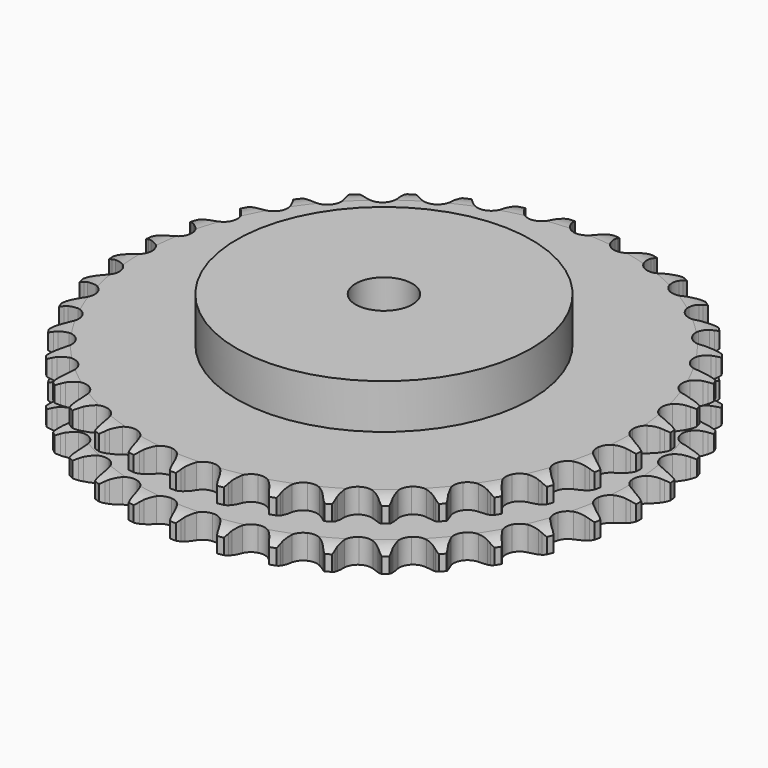
from build123d import *

# Parameters (mm, degrees)
PAD_DEPTH         = 30.3
SKETCH001_R       = 65
PAD001_DEPTH      = 50
SKETCH002_R       = 12.5
POCKET_DEPTH      = 0.001
POCKET_DEPTH_BACK = 50.001


with BuildPart() as part:
    # Sprocket → Pad (new body)
    with BuildSketch(Plane.XY):
        with BuildLine():
            ThreePointArc((-10.038333, 117.941871), (-8.627159, 116.235604), (-7.635, 114.256115))
            Line((-7.635, 114.256115), (-7.046288, 112.650437))
            ThreePointArc((-7.046288, 112.650437), (-6.115619, 110.585078), (-4.898442, 108.674493))
            ThreePointArc((-4.898442, 108.674493), (-2.741289, 106.862258), (0, 106.211991))
            ThreePointArc((0, 106.211991), (2.741289, 106.862258), (4.898442, 108.674493))
            ThreePointArc((4.898442, 108.674493), (6.115619, 110.585078), (7.046288, 112.650437))
            Line((7.046288, 112.650437), (7.635, 114.256115))
            ThreePointArc((7.635, 114.256115), (8.627159, 116.235604), (10.038333, 117.941871))
            ThreePointArc((10.038333, 117.941871), (11.140847, 116.021658), (11.7842, 113.902967))
            Line((11.7842, 113.902967), (12.093082, 112.220891))
            ThreePointArc((12.093082, 112.220891), (12.661318, 110.027957), (13.538096, 107.93915))
            ThreePointArc((13.538096, 107.93915), (15.357952, 105.788422), (17.949914, 104.684229))
            ThreePointArc((17.949914, 104.684229), (20.761667, 104.861861), (23.194061, 106.283469))
            Line((23.194061, 106.283469), (25.98295, 109.839234))
            ThreePointArc((25.98295, 109.839234), (26.388619, 110.59234), (26.834555, 111.322324))
            ThreePointArc((26.834555, 111.322324), (28.146978, 113.105664), (29.826213, 114.548898))
            ThreePointArc((29.826213, 114.548898), (30.588351, 112.46998), (30.86439, 110.273037))
            Line((30.86439, 110.273037), (30.884557, 108.562955))
            ThreePointArc((30.884557, 108.562955), (31.074011, 106.305532), (31.585168, 104.098595))
            ThreePointArc((31.585168, 104.098595), (33.015371, 101.671245), (35.383441, 100.144891))
            ThreePointArc((35.383441, 100.144891), (38.18477, 99.84478), (40.822429, 100.834863))
            Line((40.822429, 100.834863), (44.17213, 103.868157))
            ThreePointArc((44.17213, 103.868157), (44.699239, 104.541871), (45.262128, 105.185992))
            ThreePointArc((45.262128, 105.185992), (46.857059, 106.721879), (48.756048, 107.860562))
            ThreePointArc((48.756048, 107.860562), (49.155885, 105.682745), (49.056667, 103.470752))
            Line((49.056667, 103.470752), (48.787539, 101.78186))
            ThreePointArc((48.787539, 101.78186), (48.592762, 99.52489), (48.723592, 97.263312))
            ThreePointArc((48.723592, 97.263312), (49.722999, 94.629172), (51.799051, 92.724567))
            ThreePointArc((51.799051, 92.724567), (54.509366, 91.955347), (57.27641, 92.485421))
            Line((57.27641, 92.485421), (61.090558, 94.908982))
            ThreePointArc((61.090558, 94.908982), (61.723943, 95.483924), (62.387593, 96.02365))
            ThreePointArc((62.387593, 96.02365), (64.219148, 97.267901), (66.28326, 98.069273))
            ThreePointArc((66.28326, 98.069273), (66.309293, 95.85521), (65.837674, 93.691803))
            Line((65.837674, 93.691803), (65.286993, 92.072687))
            ThreePointArc((65.286993, 92.072687), (64.713587, 89.881099), (64.460327, 87.629941))
            ThreePointArc((64.460327, 87.629941), (65.000187, 84.86479), (66.724497, 82.636727))
            ThreePointArc((66.724497, 82.636727), (69.265828, 81.420525), (72.082653, 81.475342))
            Line((72.082653, 81.475342), (76.251521, 83.219448))
            ThreePointArc((76.251521, 83.219448), (76.972962, 83.679077), (77.718279, 84.098883))
            ThreePointArc((77.718279, 84.098883), (79.733769, 85.015702), (81.903623, 85.456711))
            ThreePointArc((81.903623, 85.456711), (81.555103, 83.270095), (80.72465, 81.21751))
            Line((80.72465, 81.21751), (79.908259, 79.71475))
            ThreePointArc((79.908259, 79.71475), (78.972721, 77.651591), (78.342655, 75.475616))
            ThreePointArc((78.342655, 75.475616), (78.407437, 72.659002), (79.7304, 70.171578))
            ThreePointArc((79.7304, 70.171578), (82.029637, 68.543383), (84.815209, 68.121366))
            Line((84.815209, 68.121366), (89.218868, 69.135843))
            ThreePointArc((89.218868, 69.135843), (90.007609, 69.466936), (90.813153, 69.754744))
            ThreePointArc((90.813153, 69.754744), (92.954595, 70.317756), (95.167768, 70.385714))
            ThreePointArc((95.167768, 70.385714), (94.454721, 68.289451), (93.289325, 66.406738))
            Line((93.289325, 66.406738), (92.230709, 65.063564))
            ThreePointArc((92.230709, 65.063564), (90.959952, 63.188189), (89.971209, 61.149995))
            ThreePointArc((89.971209, 61.149995), (89.559049, 58.362947), (90.442605, 55.687721))
            ThreePointArc((90.442605, 55.687721), (92.433604, 53.694373), (95.107786, 52.807662))
            Line((95.107786, 52.807662), (99.61955, 53.063325))
            ThreePointArc((99.61955, 53.063325), (100.4529, 53.256358), (101.295498, 53.403889))
            ThreePointArc((101.295498, 53.403889), (103.501286, 53.596896), (105.69411, 53.289849))
            ThreePointArc((105.69411, 53.289849), (104.637049, 51.344244), (103.170237, 49.685565))
            Line((103.170237, 49.685565), (101.89985, 48.540619))
            ThreePointArc((101.89985, 48.540619), (100.330432, 46.906978), (99.011454, 45.0652))
            ThreePointArc((99.011454, 45.0652), (98.134209, 42.387897), (98.552941, 39.601829))
            ThreePointArc((98.552941, 39.601829), (100.178424, 37.300673), (102.664286, 35.974778))
            Line((102.664286, 35.974778), (107.154358, 35.464272))
            ThreePointArc((107.154358, 35.464272), (108.008345, 35.513691), (108.863755, 35.5167))
            ThreePointArc((108.863755, 35.5167), (111.070434, 35.334152), (113.179825, 34.660932))
            ThreePointArc((113.179825, 34.660932), (111.80916, 32.921957), (110.083128, 31.535029))
            Line((110.083128, 31.535029), (108.637518, 30.621248))
            ThreePointArc((108.637518, 30.621248), (106.814588, 29.276339), (105.20332, 27.683961))
            ThreePointArc((105.20332, 27.683961), (103.886227, 25.193423), (103.828089, 22.376665))
            ThreePointArc((103.828089, 22.376665), (105.041293, 19.833901), (107.26732, 18.106965))
            Line((107.26732, 18.106965), (111.606531, 16.844976))
            ThreePointArc((111.606531, 16.844976), (112.456586, 16.74936), (113.3002, 16.607761))
            ThreePointArc((113.3002, 16.607761), (115.444287, 16.054908), (117.409562, 15.034883))
            ThreePointArc((117.409562, 15.034883), (115.764725, 13.552565), (113.829128, 12.477288))
            Line((113.829128, 12.477288), (112.249882, 11.820959))
            ThreePointArc((112.249882, 11.820959), (110.225883, 10.803472), (108.368678, 9.506305))
            ThreePointArc((108.368678, 9.506305), (106.649628, 7.274181), (106.116291, 4.507765))
            ThreePointArc((106.116291, 4.507765), (106.882315, 1.796544), (108.78447, -0.281752))
            Line((108.78447, -0.281752), (112.847988, -2.258919))
            ThreePointArc((112.847988, -2.258919), (113.669656, -2.49682), (114.477205, -2.778954))
            ThreePointArc((114.477205, -2.778954), (116.497019, -3.686207), (118.26164, -5.023693))
            ThreePointArc((118.26164, -5.023693), (116.389949, -6.20671), (114.300472, -6.939403))
            Line((114.300472, -6.939403), (112.633021, -7.319396))
            ThreePointArc((112.633021, -7.319396), (110.466179, -7.98019), (108.416467, -8.94483))
            ThreePointArc((108.416467, -8.94483), (106.344913, -10.854326), (105.351721, -13.490816))
            ThreePointArc((105.351721, -13.490816), (105.648528, -16.292496), (107.172088, -18.662364))
            Line((107.172088, -18.662364), (110.843013, -21.297829))
            ThreePointArc((110.843013, -21.297829), (111.612657, -21.67117), (112.36091, -22.085722))
            ThreePointArc((112.36091, -22.085722), (114.198343, -23.321276), (115.711546, -24.937746))
            ThreePointArc((115.711546, -24.937746), (113.666847, -25.787429), (111.483599, -26.156459))
            Line((111.483599, -26.156459), (109.775914, -26.249187))
            ThreePointArc((109.775914, -26.249187), (107.528565, -26.534278), (105.345311, -27.138639))
            ThreePointArc((105.345311, -27.138639), (102.980848, -28.670574), (101.556373, -31.10129))
            ThreePointArc((101.556373, -31.10129), (101.375424, -33.912831), (102.47656, -36.506094))
            Line((102.47656, -36.506094), (105.649287, -39.72404))
            ThreePointArc((105.649287, -39.72404), (106.344765, -40.222081), (107.012195, -40.757125))
            ThreePointArc((107.012195, -40.757125), (108.614389, -42.285434), (109.832641, -44.134385))
            ThreePointArc((109.832641, -44.134385), (107.673756, -44.626291), (105.459546, -44.621042))
            Line((105.459546, -44.621042), (103.760753, -44.423836))
            ThreePointArc((103.760753, -44.423836), (101.49755, -44.325022), (99.243562, -44.551718))
            ThreePointArc((99.243562, -44.551718), (96.654212, -45.662021), (94.839434, -47.817036))
            ThreePointArc((94.839434, -47.817036), (94.185935, -50.557556), (94.832968, -53.29961))
            Line((94.832968, -53.29961), (97.416223, -57.007461))
            ThreePointArc((97.416223, -57.007461), (98.017528, -57.615875), (98.584934, -58.25602))
            ThreePointArc((98.584934, -58.25602), (99.905797, -60.033118), (100.794051, -62.061359))
            ThreePointArc((100.794051, -62.061359), (98.583087, -62.181335), (96.401613, -61.801959))
            Line((96.401613, -61.801959), (94.760585, -61.320491))
            ThreePointArc((94.760585, -61.320491), (92.546635, -60.840616), (90.286757, -60.683126))
            ThreePointArc((90.286757, -60.683126), (87.54701, -61.339856), (85.394136, -63.157174))
            ThreePointArc((85.394136, -63.157174), (84.286887, -65.747832), (84.461204, -68.559793))
            Line((84.461204, -68.559793), (86.380671, -72.650883))
            ThreePointArc((86.380671, -72.650883), (86.870505, -73.352166), (87.321565, -74.078995))
            ThreePointArc((87.321565, -74.078995), (88.323097, -76.053758), (88.8558, -78.20294))
            ThreePointArc((88.8558, -78.20294), (86.656363, -77.947536), (84.570382, -77.204946))
            Line((84.570382, -77.204946), (83.034327, -76.453069))
            ThreePointArc((83.034327, -76.453069), (80.933322, -75.605936), (78.732566, -75.06879))
            ThreePointArc((78.732566, -75.06879), (75.92124, -75.253054), (73.492205, -76.680394))
            ThreePointArc((73.492205, -76.680394), (71.96306, -79.046662), (71.659646, -81.847635))
            Line((71.659646, -81.847635), (72.860105, -86.20427))
            ThreePointArc((72.860105, -86.20427), (73.224375, -86.978248), (73.546113, -87.770852))
            ThreePointArc((73.546113, -87.770852), (74.199502, -89.88647), (74.361329, -92.094765))
            ThreePointArc((74.361329, -92.094765), (72.236692, -91.471328), (70.306215, -90.386887))
            Line((70.306215, -90.386887), (68.919322, -89.38623))
            ThreePointArc((68.919322, -89.38623), (66.991705, -88.196212), (64.913383, -87.294862))
            ThreePointArc((64.913383, -87.294862), (62.111354, -87.001359), (59.476037, -87.99766))
            ThreePointArc((59.476037, -87.99766), (57.568986, -90.071464), (56.796569, -92.78087))
            Line((56.796569, -92.78087), (57.243486, -97.277718))
            ThreePointArc((57.243486, -97.277718), (57.471714, -98.102125), (57.654873, -98.937702))
            ThreePointArc((57.654873, -98.937702), (57.941323, -101.133311), (57.727618, -103.337191))
            ThreePointArc((57.727618, -103.337191), (55.738904, -102.363656), (54.019466, -100.968562))
            Line((54.019466, -100.968562), (52.821634, -99.747913))
            ThreePointArc((52.821634, -99.747913), (51.122858, -98.249243), (49.22676, -97.00962))
            ThreePointArc((49.22676, -97.00962), (46.514638, -96.246794), (43.748852, -96.783393))
            ThreePointArc((43.748852, -96.783393), (41.518757, -98.505074), (40.299559, -101.044969))
            Line((40.299559, -101.044969), (39.980077, -105.552662))
            ThreePointArc((39.980077, -105.552662), (40.065696, -106.403782), (40.105007, -107.258294))
            ThreePointArc((40.105007, -107.258294), (40.016277, -109.470732), (39.433189, -111.606794))
            ThreePointArc((39.433189, -111.606794), (37.637608, -110.311169), (36.178675, -108.645555))
            Line((36.178675, -108.645555), (35.204364, -107.240029))
            ThreePointArc((35.204364, -107.240029), (33.783299, -105.475822), (32.123972, -103.933588))
            ThreePointArc((32.123972, -103.933588), (29.57978, -102.723383), (26.763092, -102.784843))
            ThreePointArc((26.763092, -102.784843), (24.274109, -104.104872), (22.643204, -106.402188))
            Line((22.643204, -106.402188), (21.566513, -110.791049))
            ThreePointArc((21.566513, -110.791049), (21.507061, -111.644396), (21.401393, -112.49326))
            ThreePointArc((21.401393, -112.49326), (20.940036, -114.658879), (20.004339, -116.665674))
            ThreePointArc((20.004339, -116.665674), (18.453548, -115.08523), (17.29709, -113.197013))
            Line((17.29709, -113.197013), (16.574328, -111.647045))
            ThreePointArc((16.574328, -111.647045), (15.471857, -109.668053), (14.097036, -107.867575))
            ThreePointArc((14.097036, -107.867575), (11.793966, -106.244808), (9.007406, -105.829361))
            ThreePointArc((9.007406, -105.829361), (6.33114, -106.709763), (4.335445, -108.698409))
            Line((4.335445, -108.698409), (2.532521, -112.842179))
            ThreePointArc((2.532521, -112.842179), (2.329707, -113.673204), (2.082101, -114.492))
            ThreePointArc((2.082101, -114.492), (1.261388, -116.548498), (0, -118.368294))
            ThreePointArc((0, -118.368294), (-1.261388, -116.548498), (-2.082101, -114.492))
            Line((-2.082101, -114.492), (-2.532521, -112.842179))
            ThreePointArc((-2.532521, -112.842179), (-3.284682, -110.705335), (-4.335445, -108.698409))
            ThreePointArc((-4.335445, -108.698409), (-6.33114, -106.709763), (-9.007406, -105.829361))
            ThreePointArc((-9.007406, -105.829361), (-11.793966, -106.244808), (-14.097036, -107.867575))
            Line((-14.097036, -107.867575), (-16.574328, -111.647045))
            ThreePointArc((-16.574328, -111.647045), (-16.914668, -112.431841), (-17.29709, -113.197013))
            ThreePointArc((-17.29709, -113.197013), (-18.453548, -115.08523), (-20.004339, -116.665674))
            ThreePointArc((-20.004339, -116.665674), (-20.940036, -114.658879), (-21.401393, -112.49326))
            Line((-21.401393, -112.49326), (-21.566513, -110.791049))
            ThreePointArc((-21.566513, -110.791049), (-21.946728, -108.557825), (-22.643204, -106.402188))
            ThreePointArc((-22.643204, -106.402188), (-24.274109, -104.104872), (-26.763092, -102.784843))
            ThreePointArc((-26.763092, -102.784843), (-29.57978, -102.723383), (-32.123972, -103.933588))
            Line((-32.123972, -103.933588), (-35.204364, -107.240029))
            ThreePointArc((-35.204364, -107.240029), (-35.67244, -107.956018), (-36.178675, -108.645555))
            ThreePointArc((-36.178675, -108.645555), (-37.637608, -110.311169), (-39.433189, -111.606794))
            ThreePointArc((-39.433189, -111.606794), (-40.016277, -109.470732), (-40.105007, -107.258294))
            Line((-40.105007, -107.258294), (-39.980077, -105.552662))
            ThreePointArc((-39.980077, -105.552662), (-39.977405, -103.287305), (-40.299559, -101.044969))
            ThreePointArc((-40.299559, -101.044969), (-41.518757, -98.505074), (-43.748852, -96.783393))
            ThreePointArc((-43.748852, -96.783393), (-46.514638, -96.246794), (-49.22676, -97.00962))
            Line((-49.22676, -97.00962), (-52.821634, -99.747913))
            ThreePointArc((-52.821634, -99.747913), (-53.40398, -100.374498), (-54.019466, -100.968562))
            ThreePointArc((-54.019466, -100.968562), (-55.738904, -102.363656), (-57.727618, -103.337191))
            ThreePointArc((-57.727618, -103.337191), (-57.941323, -101.133311), (-57.654873, -98.937702))
            Line((-57.654873, -98.937702), (-57.243486, -97.277718))
            ThreePointArc((-57.243486, -97.277718), (-56.858006, -95.045396), (-56.796569, -92.78087))
            ThreePointArc((-56.796569, -92.78087), (-57.568986, -90.071464), (-59.476037, -87.99766))
            ThreePointArc((-59.476037, -87.99766), (-62.111354, -87.001359), (-64.913383, -87.294862))
            Line((-64.913383, -87.294862), (-68.919322, -89.38623))
            ThreePointArc((-68.919322, -89.38623), (-69.599185, -89.905385), (-70.306215, -90.386887))
            ThreePointArc((-70.306215, -90.386887), (-72.236692, -91.471328), (-74.361329, -92.094765))
            ThreePointArc((-74.361329, -92.094765), (-74.199502, -89.88647), (-73.546113, -87.770852))
            Line((-73.546113, -87.770852), (-72.860105, -86.20427))
            ThreePointArc((-72.860105, -86.20427), (-72.102905, -84.069205), (-71.659646, -81.847635))
            ThreePointArc((-71.659646, -81.847635), (-71.96306, -79.046662), (-73.492205, -76.680394))
            ThreePointArc((-73.492205, -76.680394), (-75.92124, -75.253054), (-78.732566, -75.06879))
            Line((-78.732566, -75.06879), (-83.034327, -76.453069))
            ThreePointArc((-83.034327, -76.453069), (-83.792148, -76.849859), (-84.570382, -77.204946))
            ThreePointArc((-84.570382, -77.204946), (-86.656363, -77.947536), (-88.8558, -78.20294))
            ThreePointArc((-88.8558, -78.20294), (-88.323097, -76.053758), (-87.321565, -74.078995))
            Line((-87.321565, -74.078995), (-86.380671, -72.650883))
            ThreePointArc((-86.380671, -72.650883), (-85.273535, -70.674496), (-84.461204, -68.559793))
            ThreePointArc((-84.461204, -68.559793), (-84.286887, -65.747832), (-85.394136, -63.157174))
            ThreePointArc((-85.394136, -63.157174), (-87.54701, -61.339856), (-90.286757, -60.683126))
            Line((-90.286757, -60.683126), (-94.760585, -61.320491))
            ThreePointArc((-94.760585, -61.320491), (-95.574563, -61.583502), (-96.401613, -61.801959))
            ThreePointArc((-96.401613, -61.801959), (-98.583087, -62.181335), (-100.794051, -62.061359))
            ThreePointArc((-100.794051, -62.061359), (-99.905797, -60.033118), (-98.584934, -58.25602))
            Line((-98.584934, -58.25602), (-97.416223, -57.007461))
            ThreePointArc((-97.416223, -57.007461), (-95.991001, -55.24661), (-94.832968, -53.29961))
            ThreePointArc((-94.832968, -53.29961), (-94.185935, -50.557556), (-94.839434, -47.817036))
            ThreePointArc((-94.839434, -47.817036), (-96.654212, -45.662021), (-99.243562, -44.551718))
            Line((-99.243562, -44.551718), (-103.760753, -44.423836))
            ThreePointArc((-103.760753, -44.423836), (-104.607472, -44.5455), (-105.459546, -44.621042))
            ThreePointArc((-105.459546, -44.621042), (-107.673756, -44.626291), (-109.832641, -44.134385))
            ThreePointArc((-109.832641, -44.134385), (-108.614389, -42.285434), (-107.012195, -40.757125))
            Line((-107.012195, -40.757125), (-105.649287, -39.72404))
            ThreePointArc((-105.649287, -39.72404), (-103.94698, -38.22938), (-102.47656, -36.506094))
            ThreePointArc((-102.47656, -36.506094), (-101.375424, -33.912831), (-101.556373, -31.10129))
            ThreePointArc((-101.556373, -31.10129), (-102.980848, -28.670574), (-105.345311, -27.138639))
            Line((-105.345311, -27.138639), (-109.775914, -26.249187))
            ThreePointArc((-109.775914, -26.249187), (-110.631015, -26.226005), (-111.483599, -26.156459))
            ThreePointArc((-111.483599, -26.156459), (-113.666847, -25.787429), (-115.711546, -24.937746))
            ThreePointArc((-115.711546, -24.937746), (-114.198343, -23.321276), (-112.36091, -22.085722))
            Line((-112.36091, -22.085722), (-110.843013, -21.297829))
            ThreePointArc((-110.843013, -21.297829), (-108.912594, -20.112361), (-107.172088, -18.662364))
            ThreePointArc((-107.172088, -18.662364), (-105.648528, -16.292496), (-105.351721, -13.490816))
            ThreePointArc((-105.351721, -13.490816), (-106.344913, -10.854326), (-108.416467, -8.94483))
            Line((-108.416467, -8.94483), (-112.633021, -7.319396))
            ThreePointArc((-112.633021, -7.319396), (-113.471905, -7.152035), (-114.300472, -6.939403))
            ThreePointArc((-114.300472, -6.939403), (-116.389949, -6.20671), (-118.26164, -5.023693))
            ThreePointArc((-118.26164, -5.023693), (-116.497019, -3.686207), (-114.477205, -2.778954))
            Line((-114.477205, -2.778954), (-112.847988, -2.258919))
            ThreePointArc((-112.847988, -2.258919), (-110.744991, -1.416745), (-108.78447, -0.281752))
            ThreePointArc((-108.78447, -0.281752), (-106.882315, 1.796544), (-106.116291, 4.507765))
            ThreePointArc((-106.116291, 4.507765), (-106.649628, 7.274181), (-108.368678, 9.506305))
            Line((-108.368678, 9.506305), (-112.249882, 11.820959))
            ThreePointArc((-112.249882, 11.820959), (-113.048415, 12.127685), (-113.829128, 12.477288))
            ThreePointArc((-113.829128, 12.477288), (-115.764725, 13.552565), (-117.409562, 15.034883))
            ThreePointArc((-117.409562, 15.034883), (-115.444287, 16.054908), (-113.3002, 16.607761))
            Line((-113.3002, 16.607761), (-111.606531, 16.844976))
            ThreePointArc((-111.606531, 16.844976), (-109.391456, 17.319628), (-107.26732, 18.106965))
            ThreePointArc((-107.26732, 18.106965), (-105.041293, 19.833901), (-103.828089, 22.376665))
            ThreePointArc((-103.828089, 22.376665), (-103.886227, 25.193423), (-105.20332, 27.683961))
            Line((-105.20332, 27.683961), (-108.637518, 30.621248))
            ThreePointArc((-108.637518, 30.621248), (-109.372728, 31.058514), (-110.083128, 31.535029))
            ThreePointArc((-110.083128, 31.535029), (-111.80916, 32.921957), (-113.179825, 34.660932))
            ThreePointArc((-113.179825, 34.660932), (-111.070434, 35.334152), (-108.863755, 35.5167))
            Line((-108.863755, 35.5167), (-107.154358, 35.464272))
            ThreePointArc((-107.154358, 35.464272), (-104.890928, 35.557747), (-102.664286, 35.974778))
            ThreePointArc((-102.664286, 35.974778), (-100.178424, 37.300673), (-98.552941, 39.601829))
            ThreePointArc((-98.552941, 39.601829), (-98.134209, 42.387897), (-99.011454, 45.0652))
            Line((-99.011454, 45.0652), (-101.89985, 48.540619))
            ThreePointArc((-101.89985, 48.540619), (-102.550586, 49.095847), (-103.170237, 49.685565))
            ThreePointArc((-103.170237, 49.685565), (-104.637049, 51.344244), (-105.69411, 53.289849))
            ThreePointArc((-105.69411, 53.289849), (-103.501286, 53.596896), (-101.295498, 53.403889))
            Line((-101.295498, 53.403889), (-99.61955, 53.063325))
            ThreePointArc((-99.61955, 53.063325), (-97.37288, 52.772934), (-95.107786, 52.807662))
            ThreePointArc((-95.107786, 52.807662), (-92.433604, 53.694373), (-90.442605, 55.687721))
            ThreePointArc((-90.442605, 55.687721), (-89.559049, 58.362947), (-89.971209, 61.149995))
            Line((-89.971209, 61.149995), (-92.230709, 65.063564))
            ThreePointArc((-92.230709, 65.063564), (-92.778251, 65.720781), (-93.289325, 66.406738))
            ThreePointArc((-93.289325, 66.406738), (-94.454721, 68.289451), (-95.167768, 70.385714))
            ThreePointArc((-95.167768, 70.385714), (-92.954595, 70.317756), (-90.813153, 69.754744))
            Line((-90.813153, 69.754744), (-89.218868, 69.135843))
            ThreePointArc((-89.218868, 69.135843), (-87.05359, 68.46994), (-84.815209, 68.121366))
            ThreePointArc((-84.815209, 68.121366), (-82.029637, 68.543383), (-79.7304, 70.171578))
            ThreePointArc((-79.7304, 70.171578), (-78.407437, 72.659002), (-78.342655, 75.475616))
            Line((-78.342655, 75.475616), (-79.908259, 79.71475))
            ThreePointArc((-79.908259, 79.71475), (-80.336854, 80.455048), (-80.72465, 81.21751))
            ThreePointArc((-80.72465, 81.21751), (-81.555103, 83.270095), (-81.903623, 85.456711))
            ThreePointArc((-81.903623, 85.456711), (-79.733769, 85.015702), (-77.718279, 84.098883))
            Line((-77.718279, 84.098883), (-76.251521, 83.219448))
            ThreePointArc((-76.251521, 83.219448), (-74.229928, 82.19719), (-72.082653, 81.475342))
            ThreePointArc((-72.082653, 81.475342), (-69.265828, 81.420525), (-66.724497, 82.636727))
            ThreePointArc((-66.724497, 82.636727), (-65.000187, 84.86479), (-64.460327, 87.629941))
            Line((-64.460327, 87.629941), (-65.286993, 92.072687))
            ThreePointArc((-65.286993, 92.072687), (-65.584313, 92.874769), (-65.837674, 93.691803))
            ThreePointArc((-65.837674, 93.691803), (-66.309293, 95.85521), (-66.28326, 98.069273))
            ThreePointArc((-66.28326, 98.069273), (-64.219148, 97.267901), (-62.387593, 96.02365))
            Line((-62.387593, 96.02365), (-61.090558, 94.908982))
            ThreePointArc((-61.090558, 94.908982), (-59.270805, 93.559777), (-57.27641, 92.485421))
            ThreePointArc((-57.27641, 92.485421), (-54.509366, 91.955347), (-51.799051, 92.724567))
            ThreePointArc((-51.799051, 92.724567), (-49.722999, 94.629172), (-48.723592, 97.263312))
            Line((-48.723592, 97.263312), (-48.787539, 101.78186))
            ThreePointArc((-48.787539, 101.78186), (-48.94503, 102.622653), (-49.056667, 103.470752))
            ThreePointArc((-49.056667, 103.470752), (-49.155885, 105.682745), (-48.756048, 107.860562))
            ThreePointArc((-48.756048, 107.860562), (-46.857059, 106.721879), (-45.262128, 105.185992))
            Line((-45.262128, 105.185992), (-44.17213, 103.868157))
            ThreePointArc((-44.17213, 103.868157), (-42.606569, 102.23082), (-40.822429, 100.834863))
            ThreePointArc((-40.822429, 100.834863), (-38.18477, 99.84478), (-35.383441, 100.144891))
            ThreePointArc((-35.383441, 100.144891), (-33.015371, 101.671245), (-31.585168, 104.098595))
            Line((-31.585168, 104.098595), (-30.884557, 108.562955))
            ThreePointArc((-30.884557, 108.562955), (-30.897688, 109.41827), (-30.86439, 110.273037))
            ThreePointArc((-30.86439, 110.273037), (-30.588351, 112.46998), (-29.826213, 114.548898))
            ThreePointArc((-29.826213, 114.548898), (-28.146978, 113.105664), (-26.834555, 111.322324))
            Line((-26.834555, 111.322324), (-25.98295, 109.839234))
            ThreePointArc((-25.98295, 109.839234), (-24.71662, 107.960868), (-23.194061, 106.283469))
            ThreePointArc((-23.194061, 106.283469), (-20.761667, 104.861861), (-17.949914, 104.684229))
            ThreePointArc((-17.949914, 104.684229), (-15.357952, 105.788422), (-13.538096, 107.93915))
            Line((-13.538096, 107.93915), (-12.093082, 112.220891))
            ThreePointArc((-12.093082, 112.220891), (-11.961475, 113.066122), (-11.7842, 113.902967))
            ThreePointArc((-11.7842, 113.902967), (-11.140847, 116.021658), (-10.038333, 117.941871))
        make_face()
    extrude(amount=PAD_DEPTH)

    # Sketch → Groove (revolve, cut)
    with BuildSketch(Plane.XZ):
        with BuildLine():
            ThreePointArc((107.964719, 0), (112.323618, 0.506758), (116.45, 2))
            Line((116.45, 2), (116.45, 8.8))
            ThreePointArc((116.45, 8.8), (112.323618, 10.293242), (107.964719, 10.8))
            Line((65, 10.8), (107.964719, 10.8))
            Line((65, 19.5), (65, 10.8))
            Line((107.964719, 19.5), (65, 19.5))
            ThreePointArc((107.964719, 19.5), (112.323618, 20.006758), (116.45, 21.5))
            Line((116.45, 21.5), (116.45, 28.3))
            ThreePointArc((116.45, 28.3), (112.323618, 29.793242), (107.964719, 30.3))
            Line((107.964719, 30.3), (126.45, 30.3))
            Line((126.45, 30.3), (126.45, 0))
            Line((107.964719, 0), (126.45, 0))
        make_face()
    revolve(axis=Axis((0, 0, 0), (0, 0, 1)), mode=Mode.SUBTRACT)

    # Sketch001 → Pad001 (join)
    with BuildSketch(Plane.XY):
        Circle(SKETCH001_R)
    extrude(amount=PAD001_DEPTH)

    # Sketch002 → Pocket (cut, two sides)
    with BuildSketch(Plane.XY) as pocket_sk:
        Circle(SKETCH002_R)
    extrude(amount=-POCKET_DEPTH, mode=Mode.SUBTRACT)
    extrude(pocket_sk.sketch, amount=POCKET_DEPTH_BACK, mode=Mode.SUBTRACT)


solid = part.part
